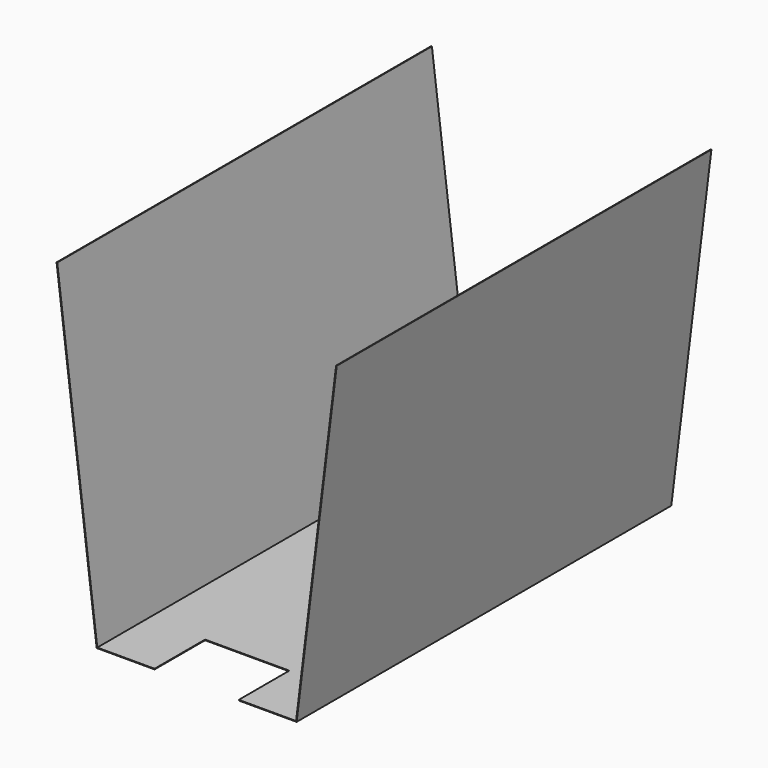
from build123d import *

# Parameters (mm, degrees)
F1_DEPTH      = 565.15
F2_T          = -0.762
F3_W          = 101.6
F3_H          = 76.2
F4_DEPTH      = 81.28
F4_DEPTH_BACK = 106.68


with BuildPart() as f1:
    # F0 (on Front) → F1 (new body)
    with BuildSketch(Plane.XZ):
        Polygon((-120.65, 0), (0, 0), (120.65, 0), (169.0323730705, 394.0428072939), (-169.0323730705, 394.0428072939), align=None)
    extrude(amount=-F1_DEPTH)

    # F2
    f2_openings = [f1.faces().sort_by_distance(p)[0] for p in [
        (0, 0, 207.990156),
        (0, 282.575, 394.042807),
        (0, 565.15, 207.990156),
    ]]
    offset(amount=F2_T, openings=f2_openings)

    # F3 (on Top) → F4 (cut, two sides)
    with BuildSketch(Plane.XY) as f4_sk:
        with Locations((0, 38.1)):
            Rectangle(F3_W, F3_H)
    extrude(amount=-F4_DEPTH, mode=Mode.SUBTRACT)
    extrude(f4_sk.sketch, amount=F4_DEPTH_BACK, mode=Mode.SUBTRACT)


solid = f1.part
